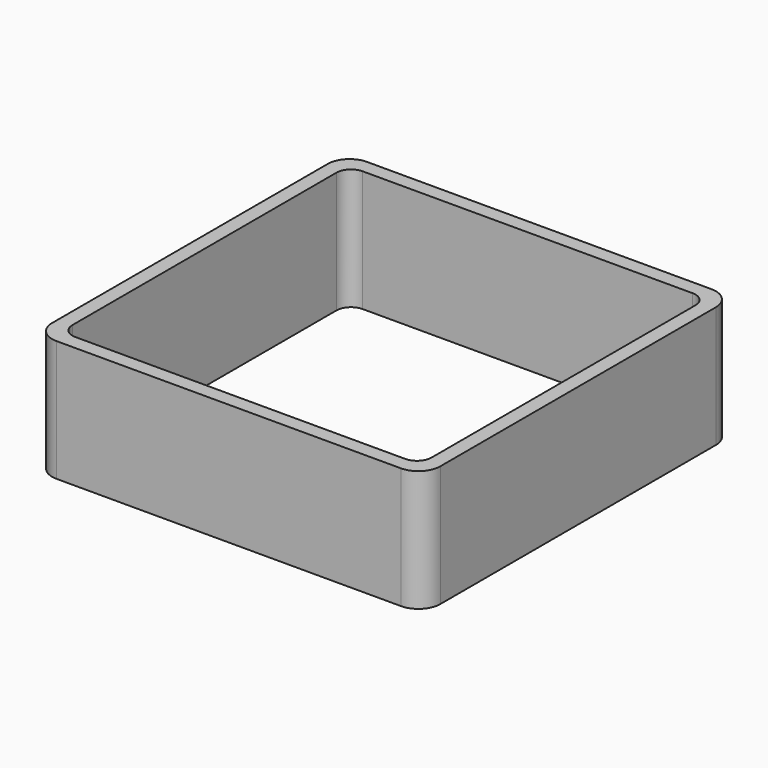
from build123d import *

# Parameters (mm, degrees)
EXTRUDE_DEPTH = 50


with BuildPart() as part:
    # Sketch → Extrude (new body)
    with BuildSketch(Plane.XY):
        with BuildLine():
            Line((-71, 80), (71, 80))
            ThreePointArc((80, 71), (77.363961, 77.363961), (71, 80))
            Line((80, 71), (80, -71))
            ThreePointArc((71, -80), (77.363961, -77.363961), (80, -71))
            Line((71, -80), (-71, -80))
            ThreePointArc((-80, -71), (-77.363961, -77.363961), (-71, -80))
            Line((-80, -71), (-80, 71))
            ThreePointArc((-71, 80), (-77.363961, 77.363961), (-80, 71))
        make_face()
        with BuildLine():
            Line((-68, 74), (68, 74))
            ThreePointArc((74, 68), (72.242641, 72.242641), (68, 74))
            Line((74, 68), (74, -68))
            ThreePointArc((68, -74), (72.242641, -72.242641), (74, -68))
            Line((68, -74), (-68, -74))
            ThreePointArc((-74, -68), (-72.242641, -72.242641), (-68, -74))
            Line((-74, -68), (-74, 68))
            ThreePointArc((-68, 74), (-72.242641, 72.242641), (-74, 68))
        make_face(mode=Mode.SUBTRACT)
    extrude(amount=EXTRUDE_DEPTH)


solid = part.part
